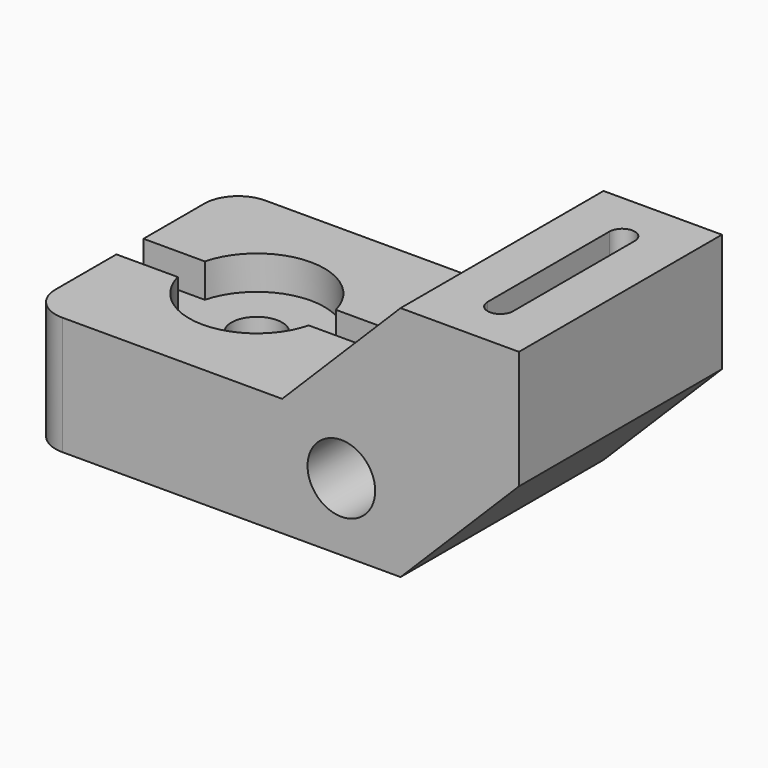
from build123d import *

# Parameters (mm, degrees)
F1_DEPTH       = 76.2
F3_DEPTH       = 27.94
F4_R           = 10.16
F5_DEPTH       = 76.201
F7_D           = 15.24
F7_CBORE_D     = 40.64
F7_CBORE_DEPTH = 10.16
F8_DEPTH       = 10.16
F9_R           = 10.16


with BuildPart() as f1:
    # F0 (on Front) → F1 (new body)
    with BuildSketch(Plane.XZ):
        Polygon((0, 35.56), (0, 0), (111.76, 0), (147.32, 35.56), (147.32, 71.12), (111.76, 71.12), (76.2, 35.56), align=None)
    extrude(amount=-F1_DEPTH)

    # F2 (on face) → F3 (cut)
    with BuildSketch(Plane.XY.offset(71.12)):
        with BuildLine():
            ThreePointArc((125.73, 15.24), (129.54, 11.43), (133.35, 15.24))
            Line((133.35, 15.24), (133.35, 60.96))
            ThreePointArc((133.35, 60.96), (129.54, 64.77), (125.73, 60.96))
            Line((125.73, 60.96), (125.73, 15.24))
        make_face()
    extrude(amount=-F3_DEPTH, mode=Mode.SUBTRACT)

    # F4 (on face) → F5 (cut, through all)
    with BuildSketch(Plane.XZ):
        with Locations((93.98, 20.32)):
            Circle(F4_R)
    extrude(amount=-F5_DEPTH, mode=Mode.SUBTRACT)

    # F7 (through all)
    with Locations(Plane.XY.offset(35.56)):
        with Locations((38.1, 38.1)):
            CounterBoreHole(F7_D / 2, F7_CBORE_D / 2, F7_CBORE_DEPTH)

    # F6 (on face) → F8 (cut)
    with BuildSketch(Plane.XY.offset(35.56)):
        with BuildLine():
            Line((18.425245, 43.18), (0, 43.18))
            Line((0, 43.18), (0, 33.02))
            Line((0, 33.02), (18.425245, 33.02))
            ThreePointArc((18.425245, 33.02), (17.78, 38.1), (18.425245, 43.18))
        make_face()
        with BuildLine():
            Line((76.2, 43.18), (57.774755, 43.18))
            ThreePointArc((57.774755, 43.18), (58.258043, 40.660407), (58.42, 38.1))
            ThreePointArc((58.42, 38.1), (58.258043, 35.539593), (57.774755, 33.02))
            Line((57.774755, 33.02), (76.2, 33.02))
            Line((76.2, 33.02), (76.2, 43.18))
        make_face()
    extrude(amount=-F8_DEPTH, mode=Mode.SUBTRACT)

    # F9
    f9_edges = [f1.edges().sort_by_distance(p)[0] for p in [
        (0, 76.2, 17.78),
        (0, 0, 17.78),
    ]]
    fillet(f9_edges, radius=F9_R)


solid = f1.part
